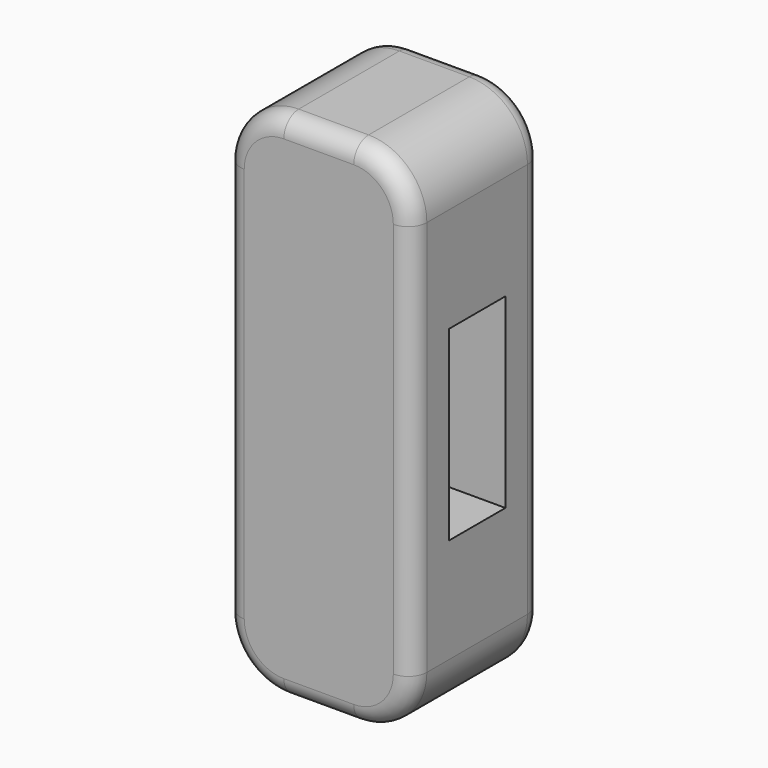
from build123d import *

# Parameters (mm, degrees)
F1_DEPTH = 44.45
F2_R     = 5.08
F3_W     = 19.267222
F3_H     = 50.8
F4_DEPTH = 50.801


with BuildPart() as f1:
    # F0 (on Front) → F1 (new body)
    with BuildSketch(Plane.XZ):
        with BuildLine():
            ThreePointArc((-25.4, -53.975), (-20.75032, -65.20032), (-9.525, -69.85))
            Line((-9.525, -69.85), (9.525, -69.85))
            ThreePointArc((9.525, -69.85), (20.75032, -65.20032), (25.4, -53.975))
            Line((25.4, -53.975), (25.4, 53.975))
            ThreePointArc((25.4, 53.975), (20.75032, 65.20032), (9.525, 69.85))
            Line((9.525, 69.85), (-9.525, 69.85))
            ThreePointArc((-9.525, 69.85), (-20.75032, 65.20032), (-25.4, 53.975))
            Line((-25.4, 53.975), (-25.4, -53.975))
        make_face()
    extrude(amount=F1_DEPTH)

    # F2
    f2_edges = [f1.edges().sort_by_distance(p)[0] for p in [
        (0, -44.45, 69.85),
        (-20.75032, -44.45, -65.20032),
        (0, -44.45, -69.85),
        (20.75032, -44.45, -65.20032),
        (25.4, -44.45, 0),
        (20.75032, -44.45, 65.20032),
        (-20.75032, -44.45, 65.20032),
        (-25.4, -44.45, 0),
        (0, 0, 69.85),
        (25.4, 0, 0),
    ]]
    fillet(f2_edges, radius=F2_R)

    # F3 (on face) → F4 (cut, through all)
    with BuildSketch(Plane.YZ.offset(25.4)):
        with Locations((-22.225, 0)):
            Rectangle(F3_W, F3_H)
    extrude(amount=-F4_DEPTH, mode=Mode.SUBTRACT)


solid = f1.part
